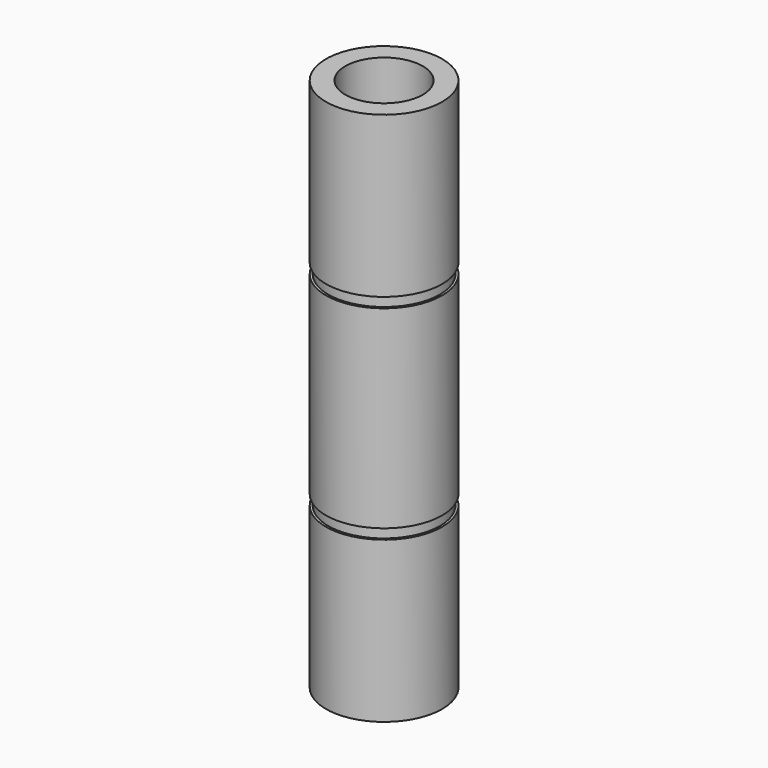
from build123d import *

# Parameters (mm, degrees)
F0_R      = 7.5
F0_R_2    = 5
F1_DEPTH  = 20.7
F2_R      = 7.2
F2_R_2    = 5
F3_DEPTH  = 1.3
F4_R      = 7.5
F4_R_2    = 7.2
F4_R_3    = 5
F5_DEPTH  = 25
F6_R      = 7.2
F6_R_2    = 5
F7_DEPTH  = 1.3
F8_R      = 7.5
F8_R_2    = 7.2
F8_R_3    = 5
F9_DEPTH  = 20.7
F11_DEPTH = 7.5


with BuildPart() as f1:
    # F0 (on Top) → F1 (new body)
    with BuildSketch(Plane.XY):
        Circle(F0_R)
        Circle(F0_R_2, mode=Mode.SUBTRACT)
    extrude(amount=F1_DEPTH)

    # F2 (on face) → F3 (join)
    with BuildSketch(Plane.XY.offset(20.7)):
        Circle(F2_R)
        Circle(F2_R_2, mode=Mode.SUBTRACT)
    extrude(amount=F3_DEPTH)

    # F10 (on Right) → F11 (cut)
    with BuildSketch(Plane.YZ):
        with BuildLine():
            Line((-2.1, 17), (-2.1, 7))
            ThreePointArc((-2.1, 7), (-0.016243837, 4.9000628253), (2.0997487026, 6.9675132978))
            Line((2.0997487026, 6.9675132978), (2.0997503275, 7.0323815113))
            Line((2.0997503275, 7.0323815113), (2.0999999993, 16.9999473983))
            ThreePointArc((2.0999999993, 16.9999473983), (2.63009e-05, 19.0999999998), (-2.1, 17))
        make_face()
        with BuildLine():
            Line((2.0997503275, 7.0323815113), (2.0997487026, 6.9675132978))
            ThreePointArc((2.0997487026, 6.9675132978), (2.0999999993, 6.9999473983), (2.0997503275, 7.0323815113))
        make_face()
    extrude(amount=-F11_DEPTH, mode=Mode.SUBTRACT)


with BuildPart() as f5:
    # F4 (on face) → F5 (new body)
    with BuildSketch(Plane.XY.offset(22)):
        Circle(F4_R)
        Circle(F4_R_2, mode=Mode.SUBTRACT)
        Circle(F4_R_2)
        Circle(F4_R_3, mode=Mode.SUBTRACT)
    extrude(amount=F5_DEPTH)

    # F6 (on face) → F7 (join)
    with BuildSketch(Plane.XY.offset(47)):
        Circle(F6_R)
        Circle(F6_R_2, mode=Mode.SUBTRACT)
    extrude(amount=F7_DEPTH)

    # F8 (on face) → F9 (join)
    with BuildSketch(Plane.XY.offset(48.3)):
        Circle(F8_R)
        Circle(F8_R_2, mode=Mode.SUBTRACT)
        Circle(F8_R_2)
        Circle(F8_R_3, mode=Mode.SUBTRACT)
    extrude(amount=F9_DEPTH)


solid = Compound([f1.part, f5.part])
